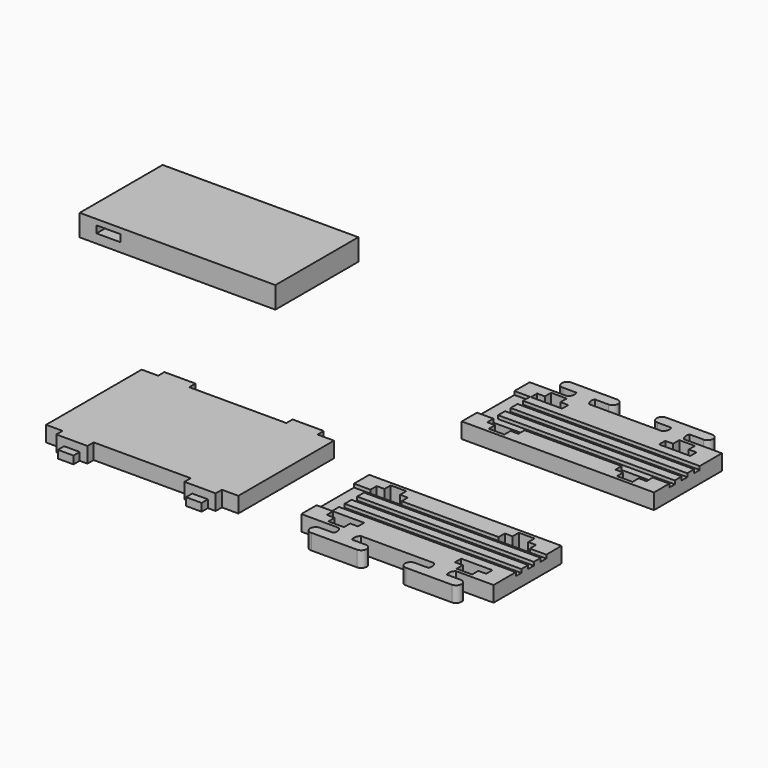
from build123d import *

# Parameters (mm, degrees)
F1_W      = 9
F1_H      = 9
F2_DEPTH  = 18
F3_DEPTH  = 9
F4_DEPTH  = 18
F0_W      = 204
F0_H      = 10
F5_DEPTH  = 14
F6_W      = 225.9626090527
F6_H      = 119.7058558464
F7_DEPTH  = 25
F8_W      = 27.7682542801
F8_H      = 8.2085495815
F9_DEPTH  = 25
F10_DEPTH = 9


with BuildPart() as f2:
    # F1 (on Top) → F2 (new body)
    with BuildSketch(Plane.XY):
        Polygon((-241.4470250607, 126.2799602178), (-260.4470250607, 126.2799602178), (-260.4470250607, -11.7200397822), (-241.4470250607, -11.7200397822), (-232.4470250607, -11.7200397822), (-214.4470250607, -11.7200397822), (-205.4470250607, -11.7200397822), (-93.4470250607, -11.7200397822), (-84.4470250607, -11.7200397822), (-66.4470250607, -11.7200397822), (-57.4470250607, -11.7200397822), (-38.4470250607, -11.7200397822), (-38.4470250607, 126.2799602178), (-57.4470250607, 126.2799602178), (-66.4470250607, 126.2799602178), (-75.4470250607, 126.2799602178), (-84.4470250607, 126.2799602178), (-93.4470250607, 126.2799602178), (-112.4470250607, 126.2799602178), (-186.4470250607, 126.2799602178), (-205.4470250607, 126.2799602178), (-214.4470250607, 126.2799602178), (-232.4470250607, 126.2799602178), align=None)
        Polygon((-214.4470250607, -11.7200397822), (-232.4470250607, -11.7200397822), (-232.4470250607, -20.7200397822), (-223.4470250607, -20.7200397822), (-214.4470250607, -20.7200397822), align=None)
        Polygon((-66.4470250607, -11.7200397822), (-84.4470250607, -11.7200397822), (-84.4470250607, -20.7200397822), (-75.4470250607, -20.7200397822), (-66.4470250607, -20.7200397822), align=None)
        Polygon((-84.4470250607, 135.2799602178), (-84.4470250607, 126.2799602178), (-75.4470250607, 126.2799602178), (-66.4470250607, 126.2799602178), (-66.4470250607, 135.2799602178), (-75.4470250607, 135.2799602178), align=None)
        Polygon((-232.4470250607, 135.2799602178), (-232.4470250607, 126.2799602178), (-214.4470250607, 126.2799602178), (-214.4470250607, 135.2799602178), (-223.4470250607, 135.2799602178), align=None)
        with Locations((-209.9470250607, -16.2200397822)):
            Rectangle(F1_W, F1_H)
        with Locations((-236.9470250607, -16.2200397822)):
            Rectangle(F1_W, F1_H)
        with Locations((-88.9470250607, -16.2200397822)):
            Rectangle(F1_W, F1_H)
        with Locations((-61.9470250607, -16.2200397822)):
            Rectangle(F1_W, F1_H)
        with Locations((-61.9470250607, 130.7799602178)):
            Rectangle(F1_W, F1_H)
        with Locations((-88.9470250607, 130.7799602178)):
            Rectangle(F1_W, F1_H)
        with Locations((-209.9470250607, 130.7799602178)):
            Rectangle(F1_W, F1_H)
        with Locations((-236.9470250607, 130.7799602178)):
            Rectangle(F1_W, F1_H)
    extrude(amount=F2_DEPTH)

    # F1 (on Top) → F3 (join)
    with BuildSketch(Plane.XY):
        Polygon((-223.4470250607, -20.7200397822), (-232.4470250607, -20.7200397822), (-232.4470250607, -29.7200397822), (-223.4470250607, -29.7200397822), (-214.4470250607, -29.7200397822), (-214.4470250607, -20.7200397822), align=None)
        Polygon((-75.4470250607, -20.7200397822), (-84.4470250607, -20.7200397822), (-84.4470250607, -29.7200397822), (-75.4470250607, -29.7200397822), (-66.4470250607, -29.7200397822), (-66.4470250607, -20.7200397822), align=None)
        Polygon((-84.4470250607, 144.2799602178), (-84.4470250607, 135.2799602178), (-75.4470250607, 135.2799602178), (-66.4470250607, 135.2799602178), (-66.4470250607, 144.2799602178), (-75.4470250607, 144.2799602178), align=None)
        Polygon((-232.4470250607, 144.2799602178), (-232.4470250607, 135.2799602178), (-223.4470250607, 135.2799602178), (-214.4470250607, 135.2799602178), (-214.4470250607, 144.2799602178), (-223.4470250607, 144.2799602178), align=None)
    extrude(amount=F3_DEPTH)


with BuildPart() as f4:
    # F0 (on Top) → F4 (new body)
    with BuildSketch(Plane.XY):
        Polygon((28.0815429941, 94), (28.0815429941, 92), (28.0815429941, 72), (47.0815429941, 72), (47.0815429941, 81), (56.0815429941, 81), (56.0815429941, 90), (65.0815429941, 90), (74.0815429941, 90), (74.0815429941, 81), (83.0815429941, 81), (83.0815429941, 72), (195.0815429941, 72), (195.0815429941, 81), (204.0815429941, 81), (204.0815429941, 90), (213.0815429941, 90), (222.0815429941, 90), (222.0815429941, 81), (231.0815429941, 81), (231.0815429941, 72), (250.0815429941, 72), (250.0815429941, 92), (250.0815429941, 94), align=None)
    extrude(amount=F4_DEPTH)



with BuildPart() as f4b:
    # F0 (on Top) → F4, piece 2 (new body)
    with BuildSketch(Plane.XY):
        with Locations((148.0815429941, 59)):
            Rectangle(F0_W, F0_H)
    extrude(amount=F4_DEPTH)


with BuildPart() as f4c:
    # F0 (on Top) → F4, piece 3 (new body)
    with BuildSketch(Plane.XY):
        with Locations((148.0815429941, 41)):
            Rectangle(F0_W, F0_H)
    extrude(amount=F4_DEPTH)


with BuildPart() as f4d:
    # F0 (on Top) → F4, piece 4 (new body)
    with BuildSketch(Plane.XY):
        Polygon((46.0815429941, 28), (46.0815429941, 18), (47.0815429941, 18), (83.0815429941, 18), (195.0815429941, 18), (231.0815429941, 18), (250.0815429941, 18), (250.0815429941, 28), align=None)
        with BuildLine():
            Line((46.0815429941, 18), (28.0815429941, 18))
            Line((28.0815429941, 18), (28.0815429941, -2))
            Line((28.0815429941, -2), (28.0815429941, -4))
            Line((28.0815429941, -4), (71.6251290518, -4))
            ThreePointArc((71.6251290518, -4), (74.4710516832, -8.8972896289), (73.6389712602, -14.5))
            Line((73.6389712602, -14.5), (57.9787666569, -14.5))
            ThreePointArc((57.9787666569, -14.5), (51.7287666569, -20.75), (57.9787666569, -27))
            Line((57.9787666569, -27), (110.6498986393, -27))
            ThreePointArc((110.6498986393, -27), (116.8998986393, -20.75), (110.6498986393, -14.5))
            Line((110.6498986393, -14.5), (94.989694036, -14.5))
            ThreePointArc((94.989694036, -14.5), (94.1576136131, -8.8972896289), (97.0035362444, -4))
            Line((97.0035362444, -4), (181.1595497437, -4))
            ThreePointArc((181.1595497437, -4), (184.0054723751, -8.8972896289), (183.1733919521, -14.5))
            Line((183.1733919521, -14.5), (167.5131873488, -14.5))
            ThreePointArc((167.5131873488, -14.5), (161.2631873488, -20.75), (167.5131873488, -27))
            Line((167.5131873488, -27), (220.1843193313, -27))
            ThreePointArc((220.1843193313, -27), (226.4343193313, -20.75), (220.1843193313, -14.5))
            Line((220.1843193313, -14.5), (204.524114728, -14.5))
            ThreePointArc((204.524114728, -14.5), (203.692034305, -8.8972896289), (206.5379569364, -4))
            Line((206.5379569364, -4), (250.0815429941, -4))
            Line((250.0815429941, -4), (250.0815429941, -2))
            Line((250.0815429941, -2), (250.0815429941, 18))
            Line((250.0815429941, 18), (231.0815429941, 18))
            Line((231.0815429941, 18), (231.0815429941, 9))
            Line((231.0815429941, 9), (222.0815429941, 9))
            Line((222.0815429941, 9), (222.0815429941, 0))
            Line((222.0815429941, 0), (213.0815429941, 0))
            Line((213.0815429941, 0), (204.0815429941, 0))
            Line((204.0815429941, 0), (204.0815429941, 9))
            Line((204.0815429941, 9), (195.0815429941, 9))
            Line((195.0815429941, 9), (195.0815429941, 18))
            Line((195.0815429941, 18), (83.0815429941, 18))
            Line((83.0815429941, 18), (83.0815429941, 9))
            Line((83.0815429941, 9), (74.0815429941, 9))
            Line((74.0815429941, 9), (74.0815429941, 0))
            Line((74.0815429941, 0), (65.0815429941, 0))
            Line((65.0815429941, 0), (56.0815429941, 0))
            Line((56.0815429941, 0), (56.0815429941, 9))
            Line((56.0815429941, 9), (47.0815429941, 9))
            Line((47.0815429941, 9), (47.0815429941, 18))
            Line((47.0815429941, 18), (46.0815429941, 18))
        make_face()
    extrude(amount=F4_DEPTH)


with BuildPart() as f4e:
    # F0 (on Top) → F4, piece 5 (new body)
    with BuildSketch(Plane.XY):
        Polygon((28.0815429941, 229.5380928516), (28.0815429941, 227.5380928516), (250.0815429941, 227.5380928516), (250.0815429941, 229.5380928516), (250.0815429941, 249.5380928516), (231.0815429941, 249.5380928516), (231.0815429941, 240.5380928516), (222.0815429941, 240.5380928516), (222.0815429941, 231.5380928516), (213.0815429941, 231.5380928516), (204.0815429941, 231.5380928516), (204.0815429941, 240.5380928516), (195.0815429941, 240.5380928516), (195.0815429941, 249.5380928516), (83.0815429941, 249.5380928516), (83.0815429941, 240.5380928516), (74.0815429941, 240.5380928516), (74.0815429941, 231.5380928516), (65.0815429941, 231.5380928516), (56.0815429941, 231.5380928516), (56.0815429941, 240.5380928516), (47.0815429941, 240.5380928516), (47.0815429941, 249.5380928516), (28.0815429941, 249.5380928516), align=None)
    extrude(amount=F4_DEPTH)



with BuildPart() as f4f:
    # F0 (on Top) → F4, piece 6 (new body)
    with BuildSketch(Plane.XY):
        with Locations((148.0815429941, 262.5380928516)):
            Rectangle(F0_W, F0_H)
    extrude(amount=F4_DEPTH)


with BuildPart() as f4g:
    # F0 (on Top) → F4, piece 7 (new body)
    with BuildSketch(Plane.XY):
        with Locations((148.0815429941, 280.5380928516)):
            Rectangle(F0_W, F0_H)
    extrude(amount=F4_DEPTH)


with BuildPart() as f4h:
    # F0 (on Top) → F4, piece 8 (new body)
    with BuildSketch(Plane.XY):
        Polygon((47.0815429941, 303.5380928516), (46.0815429941, 303.5380928516), (46.0815429941, 293.5380928516), (250.0815429941, 293.5380928516), (250.0815429941, 303.5380928516), (231.0815429941, 303.5380928516), (195.0815429941, 303.5380928516), (83.0815429941, 303.5380928516), align=None)
        with BuildLine():
            Line((28.0815429941, 323.5380928516), (28.0815429941, 303.5380928516))
            Line((28.0815429941, 303.5380928516), (46.0815429941, 303.5380928516))
            Line((46.0815429941, 303.5380928516), (47.0815429941, 303.5380928516))
            Line((47.0815429941, 303.5380928516), (47.0815429941, 312.5380928516))
            Line((47.0815429941, 312.5380928516), (56.0815429941, 312.5380928516))
            Line((56.0815429941, 312.5380928516), (56.0815429941, 321.5380928516))
            Line((56.0815429941, 321.5380928516), (65.0815429941, 321.5380928516))
            Line((65.0815429941, 321.5380928516), (74.0815429941, 321.5380928516))
            Line((74.0815429941, 321.5380928516), (74.0815429941, 312.5380928516))
            Line((74.0815429941, 312.5380928516), (83.0815429941, 312.5380928516))
            Line((83.0815429941, 312.5380928516), (83.0815429941, 303.5380928516))
            Line((83.0815429941, 303.5380928516), (195.0815429941, 303.5380928516))
            Line((195.0815429941, 303.5380928516), (195.0815429941, 312.5380928516))
            Line((195.0815429941, 312.5380928516), (204.0815429941, 312.5380928516))
            Line((204.0815429941, 312.5380928516), (204.0815429941, 321.5380928516))
            Line((204.0815429941, 321.5380928516), (213.0815429941, 321.5380928516))
            Line((213.0815429941, 321.5380928516), (222.0815429941, 321.5380928516))
            Line((222.0815429941, 321.5380928516), (222.0815429941, 312.5380928516))
            Line((222.0815429941, 312.5380928516), (231.0815429941, 312.5380928516))
            Line((231.0815429941, 312.5380928516), (231.0815429941, 303.5380928516))
            Line((231.0815429941, 303.5380928516), (250.0815429941, 303.5380928516))
            Line((250.0815429941, 303.5380928516), (250.0815429941, 323.5380928516))
            Line((250.0815429941, 323.5380928516), (250.0815429941, 325.5380928516))
            Line((250.0815429941, 325.5380928516), (206.5379569364, 325.5380928516))
            ThreePointArc((206.5379569364, 325.5380928516), (203.692034305, 330.4353824805), (204.524114728, 336.0380928516))
            Line((204.524114728, 336.0380928516), (220.1843193313, 336.0380928516))
            ThreePointArc((220.1843193313, 336.0380928516), (226.4343193313, 342.2880928516), (220.1843193313, 348.5380928516))
            Line((220.1843193313, 348.5380928516), (167.5131873488, 348.5380928516))
            ThreePointArc((167.5131873488, 348.5380928516), (161.2631873488, 342.2880928516), (167.5131873488, 336.0380928516))
            Line((167.5131873488, 336.0380928516), (183.1733919521, 336.0380928516))
            ThreePointArc((183.1733919521, 336.0380928516), (184.0054723751, 330.4353824805), (181.1595497437, 325.5380928516))
            Line((181.1595497437, 325.5380928516), (97.0035362444, 325.5380928516))
            ThreePointArc((97.0035362444, 325.5380928516), (94.1576136131, 330.4353824805), (94.989694036, 336.0380928516))
            Line((94.989694036, 336.0380928516), (110.6498986393, 336.0380928516))
            ThreePointArc((110.6498986393, 336.0380928516), (116.8998986393, 342.2880928516), (110.6498986393, 348.5380928516))
            Line((110.6498986393, 348.5380928516), (57.9787666569, 348.5380928516))
            ThreePointArc((57.9787666569, 348.5380928516), (51.7287666569, 342.2880928516), (57.9787666569, 336.0380928516))
            Line((57.9787666569, 336.0380928516), (73.6389712602, 336.0380928516))
            ThreePointArc((73.6389712602, 336.0380928516), (74.4710516832, 330.4353824805), (71.6251290518, 325.5380928516))
            Line((71.6251290518, 325.5380928516), (28.0815429941, 325.5380928516))
            Line((28.0815429941, 325.5380928516), (28.0815429941, 323.5380928516))
        make_face()
    extrude(amount=F4_DEPTH)


with BuildPart() as f4_1:
    add(f4.part)

    add(f4b.part)  # F5 merges F4b

    add(f4c.part)  # F5 merges F4c

    add(f4d.part)  # F5 merges F4d
    # F0 (on Top) → F5 (join)
    with BuildSketch(Plane.XY):
        Polygon((46.0815429941, 36), (28.0815429941, 36), (28.0815429941, 18), (46.0815429941, 18), (46.0815429941, 28), (250.0815429941, 28), (250.0815429941, 36), align=None)
        Polygon((46.0815429941, 54), (28.0815429941, 54), (28.0815429941, 36), (46.0815429941, 36), (46.0815429941, 46), (250.0815429941, 46), (250.0815429941, 54), align=None)
        Polygon((47.0815429941, 72), (28.0815429941, 72), (28.0815429941, 54), (46.0815429941, 54), (46.0815429941, 64), (250.0815429941, 64), (250.0815429941, 72), (231.0815429941, 72), (195.0815429941, 72), (83.0815429941, 72), align=None)
    extrude(amount=F5_DEPTH)

    # F0 (on Top) → F10, piece 2 (join)
    with BuildSketch(Plane.XY):
        Polygon((28.0815429941, 94), (28.0815429941, 92), (28.0815429941, 72), (47.0815429941, 72), (47.0815429941, 81), (56.0815429941, 81), (56.0815429941, 90), (65.0815429941, 90), (74.0815429941, 90), (74.0815429941, 81), (83.0815429941, 81), (83.0815429941, 72), (195.0815429941, 72), (195.0815429941, 81), (204.0815429941, 81), (204.0815429941, 90), (213.0815429941, 90), (222.0815429941, 90), (222.0815429941, 81), (231.0815429941, 81), (231.0815429941, 72), (250.0815429941, 72), (250.0815429941, 92), (250.0815429941, 94), align=None)
        Polygon((28.0815429941, 94), (28.0815429941, 92), (28.0815429941, 72), (47.0815429941, 72), (47.0815429941, 81), (56.0815429941, 81), (56.0815429941, 90), (65.0815429941, 90), (74.0815429941, 90), (74.0815429941, 81), (83.0815429941, 81), (83.0815429941, 72), (195.0815429941, 72), (195.0815429941, 81), (204.0815429941, 81), (204.0815429941, 90), (213.0815429941, 90), (222.0815429941, 90), (222.0815429941, 81), (231.0815429941, 81), (231.0815429941, 72), (250.0815429941, 72), (250.0815429941, 92), (250.0815429941, 94), align=None)
        with BuildLine():
            Line((46.0815429941, 18), (28.0815429941, 18))
            Line((28.0815429941, 18), (28.0815429941, -2))
            Line((28.0815429941, -2), (28.0815429941, -4))
            Line((28.0815429941, -4), (71.6251290518, -4))
            ThreePointArc((71.6251290518, -4), (74.4710516832, -8.8972896289), (73.6389712602, -14.5))
            Line((73.6389712602, -14.5), (57.9787666569, -14.5))
            ThreePointArc((57.9787666569, -14.5), (51.7287666569, -20.75), (57.9787666569, -27))
            Line((57.9787666569, -27), (110.6498986393, -27))
            ThreePointArc((110.6498986393, -27), (116.8998986393, -20.75), (110.6498986393, -14.5))
            Line((110.6498986393, -14.5), (94.989694036, -14.5))
            ThreePointArc((94.989694036, -14.5), (94.1576136131, -8.8972896289), (97.0035362444, -4))
            Line((97.0035362444, -4), (181.1595497437, -4))
            ThreePointArc((181.1595497437, -4), (184.0054723751, -8.8972896289), (183.1733919521, -14.5))
            Line((183.1733919521, -14.5), (167.5131873488, -14.5))
            ThreePointArc((167.5131873488, -14.5), (161.2631873488, -20.75), (167.5131873488, -27))
            Line((167.5131873488, -27), (220.1843193313, -27))
            ThreePointArc((220.1843193313, -27), (226.4343193313, -20.75), (220.1843193313, -14.5))
            Line((220.1843193313, -14.5), (204.524114728, -14.5))
            ThreePointArc((204.524114728, -14.5), (203.692034305, -8.8972896289), (206.5379569364, -4))
            Line((206.5379569364, -4), (250.0815429941, -4))
            Line((250.0815429941, -4), (250.0815429941, -2))
            Line((250.0815429941, -2), (250.0815429941, 18))
            Line((250.0815429941, 18), (231.0815429941, 18))
            Line((231.0815429941, 18), (231.0815429941, 9))
            Line((231.0815429941, 9), (222.0815429941, 9))
            Line((222.0815429941, 9), (222.0815429941, 0))
            Line((222.0815429941, 0), (213.0815429941, 0))
            Line((213.0815429941, 0), (204.0815429941, 0))
            Line((204.0815429941, 0), (204.0815429941, 9))
            Line((204.0815429941, 9), (195.0815429941, 9))
            Line((195.0815429941, 9), (195.0815429941, 18))
            Line((195.0815429941, 18), (83.0815429941, 18))
            Line((83.0815429941, 18), (83.0815429941, 9))
            Line((83.0815429941, 9), (74.0815429941, 9))
            Line((74.0815429941, 9), (74.0815429941, 0))
            Line((74.0815429941, 0), (65.0815429941, 0))
            Line((65.0815429941, 0), (56.0815429941, 0))
            Line((56.0815429941, 0), (56.0815429941, 9))
            Line((56.0815429941, 9), (47.0815429941, 9))
            Line((47.0815429941, 9), (47.0815429941, 18))
            Line((47.0815429941, 18), (46.0815429941, 18))
        make_face()
        with BuildLine():
            Line((46.0815429941, 18), (28.0815429941, 18))
            Line((28.0815429941, 18), (28.0815429941, -2))
            Line((28.0815429941, -2), (28.0815429941, -4))
            Line((28.0815429941, -4), (71.6251290518, -4))
            ThreePointArc((71.6251290518, -4), (74.4710516832, -8.8972896289), (73.6389712602, -14.5))
            Line((73.6389712602, -14.5), (57.9787666569, -14.5))
            ThreePointArc((57.9787666569, -14.5), (51.7287666569, -20.75), (57.9787666569, -27))
            Line((57.9787666569, -27), (110.6498986393, -27))
            ThreePointArc((110.6498986393, -27), (116.8998986393, -20.75), (110.6498986393, -14.5))
            Line((110.6498986393, -14.5), (94.989694036, -14.5))
            ThreePointArc((94.989694036, -14.5), (94.1576136131, -8.8972896289), (97.0035362444, -4))
            Line((97.0035362444, -4), (181.1595497437, -4))
            ThreePointArc((181.1595497437, -4), (184.0054723751, -8.8972896289), (183.1733919521, -14.5))
            Line((183.1733919521, -14.5), (167.5131873488, -14.5))
            ThreePointArc((167.5131873488, -14.5), (161.2631873488, -20.75), (167.5131873488, -27))
            Line((167.5131873488, -27), (220.1843193313, -27))
            ThreePointArc((220.1843193313, -27), (226.4343193313, -20.75), (220.1843193313, -14.5))
            Line((220.1843193313, -14.5), (204.524114728, -14.5))
            ThreePointArc((204.524114728, -14.5), (203.692034305, -8.8972896289), (206.5379569364, -4))
            Line((206.5379569364, -4), (250.0815429941, -4))
            Line((250.0815429941, -4), (250.0815429941, -2))
            Line((250.0815429941, -2), (250.0815429941, 18))
            Line((250.0815429941, 18), (231.0815429941, 18))
            Line((231.0815429941, 18), (231.0815429941, 9))
            Line((231.0815429941, 9), (222.0815429941, 9))
            Line((222.0815429941, 9), (222.0815429941, 0))
            Line((222.0815429941, 0), (213.0815429941, 0))
            Line((213.0815429941, 0), (204.0815429941, 0))
            Line((204.0815429941, 0), (204.0815429941, 9))
            Line((204.0815429941, 9), (195.0815429941, 9))
            Line((195.0815429941, 9), (195.0815429941, 18))
            Line((195.0815429941, 18), (83.0815429941, 18))
            Line((83.0815429941, 18), (83.0815429941, 9))
            Line((83.0815429941, 9), (74.0815429941, 9))
            Line((74.0815429941, 9), (74.0815429941, 0))
            Line((74.0815429941, 0), (65.0815429941, 0))
            Line((65.0815429941, 0), (56.0815429941, 0))
            Line((56.0815429941, 0), (56.0815429941, 9))
            Line((56.0815429941, 9), (47.0815429941, 9))
            Line((47.0815429941, 9), (47.0815429941, 18))
            Line((47.0815429941, 18), (46.0815429941, 18))
        make_face()
    extrude(amount=F10_DEPTH)


with BuildPart() as f4e_1:
    add(f4e.part)

    add(f4f.part)  # F5#2 merges F4f

    add(f4g.part)  # F5#2 merges F4g

    add(f4h.part)  # F5#2 merges F4h
    # F0 (on Top) → F5, piece 2 (join)
    with BuildSketch(Plane.XY):
        Polygon((28.0815429941, 267.5380928516), (28.0815429941, 249.5380928516), (47.0815429941, 249.5380928516), (83.0815429941, 249.5380928516), (195.0815429941, 249.5380928516), (231.0815429941, 249.5380928516), (250.0815429941, 249.5380928516), (250.0815429941, 257.5380928516), (46.0815429941, 257.5380928516), (46.0815429941, 267.5380928516), align=None)
        Polygon((28.0815429941, 285.5380928516), (28.0815429941, 267.5380928516), (46.0815429941, 267.5380928516), (250.0815429941, 267.5380928516), (250.0815429941, 275.5380928516), (46.0815429941, 275.5380928516), (46.0815429941, 285.5380928516), align=None)
        Polygon((28.0815429941, 303.5380928516), (28.0815429941, 285.5380928516), (46.0815429941, 285.5380928516), (250.0815429941, 285.5380928516), (250.0815429941, 293.5380928516), (46.0815429941, 293.5380928516), (46.0815429941, 303.5380928516), align=None)
    extrude(amount=F5_DEPTH)

    # F0 (on Top) → F10 (join)
    with BuildSketch(Plane.XY):
        with BuildLine():
            Line((28.0815429941, 323.5380928516), (28.0815429941, 303.5380928516))
            Line((28.0815429941, 303.5380928516), (46.0815429941, 303.5380928516))
            Line((46.0815429941, 303.5380928516), (47.0815429941, 303.5380928516))
            Line((47.0815429941, 303.5380928516), (47.0815429941, 312.5380928516))
            Line((47.0815429941, 312.5380928516), (56.0815429941, 312.5380928516))
            Line((56.0815429941, 312.5380928516), (56.0815429941, 321.5380928516))
            Line((56.0815429941, 321.5380928516), (65.0815429941, 321.5380928516))
            Line((65.0815429941, 321.5380928516), (74.0815429941, 321.5380928516))
            Line((74.0815429941, 321.5380928516), (74.0815429941, 312.5380928516))
            Line((74.0815429941, 312.5380928516), (83.0815429941, 312.5380928516))
            Line((83.0815429941, 312.5380928516), (83.0815429941, 303.5380928516))
            Line((83.0815429941, 303.5380928516), (195.0815429941, 303.5380928516))
            Line((195.0815429941, 303.5380928516), (195.0815429941, 312.5380928516))
            Line((195.0815429941, 312.5380928516), (204.0815429941, 312.5380928516))
            Line((204.0815429941, 312.5380928516), (204.0815429941, 321.5380928516))
            Line((204.0815429941, 321.5380928516), (213.0815429941, 321.5380928516))
            Line((213.0815429941, 321.5380928516), (222.0815429941, 321.5380928516))
            Line((222.0815429941, 321.5380928516), (222.0815429941, 312.5380928516))
            Line((222.0815429941, 312.5380928516), (231.0815429941, 312.5380928516))
            Line((231.0815429941, 312.5380928516), (231.0815429941, 303.5380928516))
            Line((231.0815429941, 303.5380928516), (250.0815429941, 303.5380928516))
            Line((250.0815429941, 303.5380928516), (250.0815429941, 323.5380928516))
            Line((250.0815429941, 323.5380928516), (250.0815429941, 325.5380928516))
            Line((250.0815429941, 325.5380928516), (206.5379569364, 325.5380928516))
            ThreePointArc((206.5379569364, 325.5380928516), (203.692034305, 330.4353824805), (204.524114728, 336.0380928516))
            Line((204.524114728, 336.0380928516), (220.1843193313, 336.0380928516))
            ThreePointArc((220.1843193313, 336.0380928516), (226.4343193313, 342.2880928516), (220.1843193313, 348.5380928516))
            Line((220.1843193313, 348.5380928516), (167.5131873488, 348.5380928516))
            ThreePointArc((167.5131873488, 348.5380928516), (161.2631873488, 342.2880928516), (167.5131873488, 336.0380928516))
            Line((167.5131873488, 336.0380928516), (183.1733919521, 336.0380928516))
            ThreePointArc((183.1733919521, 336.0380928516), (184.0054723751, 330.4353824805), (181.1595497437, 325.5380928516))
            Line((181.1595497437, 325.5380928516), (97.0035362444, 325.5380928516))
            ThreePointArc((97.0035362444, 325.5380928516), (94.1576136131, 330.4353824805), (94.989694036, 336.0380928516))
            Line((94.989694036, 336.0380928516), (110.6498986393, 336.0380928516))
            ThreePointArc((110.6498986393, 336.0380928516), (116.8998986393, 342.2880928516), (110.6498986393, 348.5380928516))
            Line((110.6498986393, 348.5380928516), (57.9787666569, 348.5380928516))
            ThreePointArc((57.9787666569, 348.5380928516), (51.7287666569, 342.2880928516), (57.9787666569, 336.0380928516))
            Line((57.9787666569, 336.0380928516), (73.6389712602, 336.0380928516))
            ThreePointArc((73.6389712602, 336.0380928516), (74.4710516832, 330.4353824805), (71.6251290518, 325.5380928516))
            Line((71.6251290518, 325.5380928516), (28.0815429941, 325.5380928516))
            Line((28.0815429941, 325.5380928516), (28.0815429941, 323.5380928516))
        make_face()
        with BuildLine():
            Line((28.0815429941, 323.5380928516), (28.0815429941, 303.5380928516))
            Line((28.0815429941, 303.5380928516), (46.0815429941, 303.5380928516))
            Line((46.0815429941, 303.5380928516), (47.0815429941, 303.5380928516))
            Line((47.0815429941, 303.5380928516), (47.0815429941, 312.5380928516))
            Line((47.0815429941, 312.5380928516), (56.0815429941, 312.5380928516))
            Line((56.0815429941, 312.5380928516), (56.0815429941, 321.5380928516))
            Line((56.0815429941, 321.5380928516), (65.0815429941, 321.5380928516))
            Line((65.0815429941, 321.5380928516), (74.0815429941, 321.5380928516))
            Line((74.0815429941, 321.5380928516), (74.0815429941, 312.5380928516))
            Line((74.0815429941, 312.5380928516), (83.0815429941, 312.5380928516))
            Line((83.0815429941, 312.5380928516), (83.0815429941, 303.5380928516))
            Line((83.0815429941, 303.5380928516), (195.0815429941, 303.5380928516))
            Line((195.0815429941, 303.5380928516), (195.0815429941, 312.5380928516))
            Line((195.0815429941, 312.5380928516), (204.0815429941, 312.5380928516))
            Line((204.0815429941, 312.5380928516), (204.0815429941, 321.5380928516))
            Line((204.0815429941, 321.5380928516), (213.0815429941, 321.5380928516))
            Line((213.0815429941, 321.5380928516), (222.0815429941, 321.5380928516))
            Line((222.0815429941, 321.5380928516), (222.0815429941, 312.5380928516))
            Line((222.0815429941, 312.5380928516), (231.0815429941, 312.5380928516))
            Line((231.0815429941, 312.5380928516), (231.0815429941, 303.5380928516))
            Line((231.0815429941, 303.5380928516), (250.0815429941, 303.5380928516))
            Line((250.0815429941, 303.5380928516), (250.0815429941, 323.5380928516))
            Line((250.0815429941, 323.5380928516), (250.0815429941, 325.5380928516))
            Line((250.0815429941, 325.5380928516), (206.5379569364, 325.5380928516))
            ThreePointArc((206.5379569364, 325.5380928516), (203.692034305, 330.4353824805), (204.524114728, 336.0380928516))
            Line((204.524114728, 336.0380928516), (220.1843193313, 336.0380928516))
            ThreePointArc((220.1843193313, 336.0380928516), (226.4343193313, 342.2880928516), (220.1843193313, 348.5380928516))
            Line((220.1843193313, 348.5380928516), (167.5131873488, 348.5380928516))
            ThreePointArc((167.5131873488, 348.5380928516), (161.2631873488, 342.2880928516), (167.5131873488, 336.0380928516))
            Line((167.5131873488, 336.0380928516), (183.1733919521, 336.0380928516))
            ThreePointArc((183.1733919521, 336.0380928516), (184.0054723751, 330.4353824805), (181.1595497437, 325.5380928516))
            Line((181.1595497437, 325.5380928516), (97.0035362444, 325.5380928516))
            ThreePointArc((97.0035362444, 325.5380928516), (94.1576136131, 330.4353824805), (94.989694036, 336.0380928516))
            Line((94.989694036, 336.0380928516), (110.6498986393, 336.0380928516))
            ThreePointArc((110.6498986393, 336.0380928516), (116.8998986393, 342.2880928516), (110.6498986393, 348.5380928516))
            Line((110.6498986393, 348.5380928516), (57.9787666569, 348.5380928516))
            ThreePointArc((57.9787666569, 348.5380928516), (51.7287666569, 342.2880928516), (57.9787666569, 336.0380928516))
            Line((57.9787666569, 336.0380928516), (73.6389712602, 336.0380928516))
            ThreePointArc((73.6389712602, 336.0380928516), (74.4710516832, 330.4353824805), (71.6251290518, 325.5380928516))
            Line((71.6251290518, 325.5380928516), (28.0815429941, 325.5380928516))
            Line((28.0815429941, 325.5380928516), (28.0815429941, 323.5380928516))
        make_face()
        Polygon((28.0815429941, 229.5380928516), (28.0815429941, 227.5380928516), (250.0815429941, 227.5380928516), (250.0815429941, 229.5380928516), (250.0815429941, 249.5380928516), (231.0815429941, 249.5380928516), (231.0815429941, 240.5380928516), (222.0815429941, 240.5380928516), (222.0815429941, 231.5380928516), (213.0815429941, 231.5380928516), (204.0815429941, 231.5380928516), (204.0815429941, 240.5380928516), (195.0815429941, 240.5380928516), (195.0815429941, 249.5380928516), (83.0815429941, 249.5380928516), (83.0815429941, 240.5380928516), (74.0815429941, 240.5380928516), (74.0815429941, 231.5380928516), (65.0815429941, 231.5380928516), (56.0815429941, 231.5380928516), (56.0815429941, 240.5380928516), (47.0815429941, 240.5380928516), (47.0815429941, 249.5380928516), (28.0815429941, 249.5380928516), align=None)
        Polygon((28.0815429941, 229.5380928516), (28.0815429941, 227.5380928516), (250.0815429941, 227.5380928516), (250.0815429941, 229.5380928516), (250.0815429941, 249.5380928516), (231.0815429941, 249.5380928516), (231.0815429941, 240.5380928516), (222.0815429941, 240.5380928516), (222.0815429941, 231.5380928516), (213.0815429941, 231.5380928516), (204.0815429941, 231.5380928516), (204.0815429941, 240.5380928516), (195.0815429941, 240.5380928516), (195.0815429941, 249.5380928516), (83.0815429941, 249.5380928516), (83.0815429941, 240.5380928516), (74.0815429941, 240.5380928516), (74.0815429941, 231.5380928516), (65.0815429941, 231.5380928516), (56.0815429941, 231.5380928516), (56.0815429941, 240.5380928516), (47.0815429941, 240.5380928516), (47.0815429941, 249.5380928516), (28.0815429941, 249.5380928516), align=None)
    extrude(amount=F10_DEPTH)


with BuildPart() as f7:
    # F6 (on Top) → F7 (new body)
    with BuildSketch(Plane.XY):
        with Locations((-373.9760071039, 379.7658085823)):
            Rectangle(F6_W, F6_H)
    extrude(amount=F7_DEPTH)

    # F8 (on face) → F9 (cut)
    with BuildSketch(Plane.XZ.offset(-319.9128806591)):
        with Locations((-453.6608755589, 14.4987781532)):
            Rectangle(F8_W, F8_H)
    extrude(amount=-F9_DEPTH, mode=Mode.SUBTRACT)


solid = Compound([f2.part, f4_1.part, f4e_1.part, f7.part])
